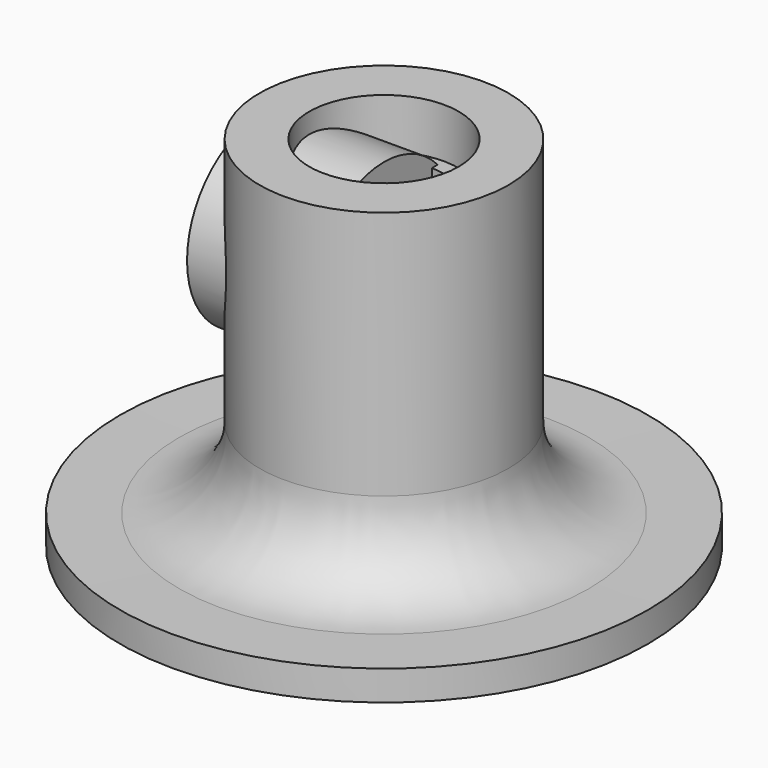
from build123d import *

# Parameters (mm, degrees)
F2_R     = 18.18032
F3_DEPTH = 25


with BuildPart() as f1:
    # F0 (on Front) → F1 (revolve)
    with BuildSketch(Plane.XZ):
        with BuildLine():
            Line((25, 72), (15, 72))
            Line((15, 72), (15, 62))
            Line((15, 62), (12, 62))
            Line((12, 62), (12, 8))
            Line((12, 8), (14, 8))
            Line((14, 8), (14, 0))
            Line((14, 0), (18, 0))
            Line((18, 0), (18.983561, 10.772229))
            ThreePointArc((18.983561, 10.772229), (20.555187, 12.545759), (22.716557, 11.574216))
            ThreePointArc((22.716557, 11.574216), (31.292212, 3.283083), (43, 1))
            Line((43, 1), (43, 0))
            Line((43, 0), (53, 0))
            Line((53, 0), (53, 6))
            Line((53, 6), (41.127951, 5.905057))
            ThreePointArc((41.127951, 5.905057), (29.73162, 10.545689), (25, 21.904545))
            Line((25, 21.904545), (25, 72))
        make_face()
    revolve(axis=Axis((0, 0, 31.754872), (0, 0, -1)))

    # F2 (on Right) → F3 (join)
    with BuildSketch(Plane.YZ):
        with Locations((0, 49.780734)):
            Circle(F2_R)
    extrude(amount=-F3_DEPTH)


solid = f1.part
